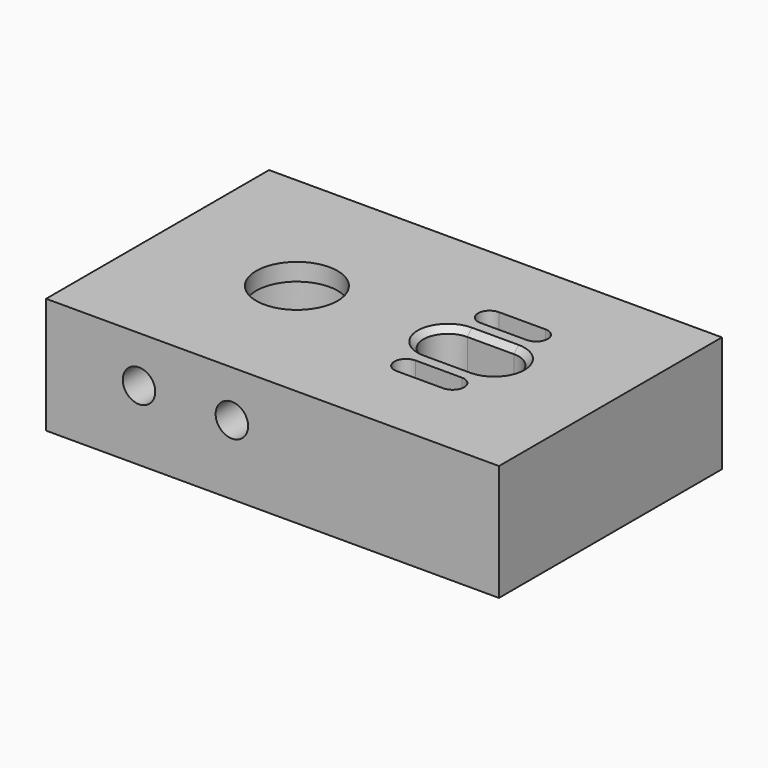
from build123d import *

# Parameters (mm, degrees)
CYLINDER028_R          = 1.4
CYLINDER028_DEPTH      = 19
CYLINDER028_ROLL_ANGLE = 90
CYLINDER031_R          = 1.4
CYLINDER031_DEPTH      = 19
CYLINDER031_ROLL_ANGLE = 90
CYLINDER032_R          = 1.4
CYLINDER032_DEPTH      = 19
CYLINDER032_ROLL_ANGLE = 90
CYLINDER027_R          = 1.4
CYLINDER027_DEPTH      = 19
CYLINDER027_ROLL_ANGLE = 90
CYLINDER021_R          = 1
CYLINDER021_DEPTH      = 30
CYLINDER022_R          = 1
CYLINDER022_DEPTH      = 30
BOX001007_W            = 4
BOX001007_H            = 4.2
BOX001007_DEPTH        = 27
CYLINDER020_R          = 2.1
CYLINDER020_DEPTH      = 30
CYLINDER023_R          = 2.1
CYLINDER023_DEPTH      = 30
CYLINDER024_R          = 1
CYLINDER024_DEPTH      = 30
BOX001008_W            = 4
BOX001008_H            = 2
BOX001008_DEPTH        = 27
CYLINDER025_R          = 1
CYLINDER025_DEPTH      = 30
BOX001009_W            = 4
BOX001009_H            = 2
BOX001009_DEPTH        = 27
CYLINDER016_R          = 3.5
CYLINDER016_DEPTH      = 30
CYLINDER017_R          = 4.7
CYLINDER017_DEPTH      = 30
CYLINDER018_R          = 10
CYLINDER018_DEPTH      = 30
CYLINDER026_R          = 10
CYLINDER026_DEPTH      = 30
CYLINDER019_R          = 10
CYLINDER019_DEPTH      = 30
BOX001006_W            = 39
BOX001006_H            = 24
BOX001006_DEPTH        = 10
CHAMFER_SIZE           = 1
CHAMFER014_SIZE        = 0.5


with BuildPart() as cylinder028:
    # Cylinder028 → Cylinder028 (new body)
    with BuildSketch(Plane.XY):
        Circle(CYLINDER028_R)
    extrude(amount=CYLINDER028_DEPTH)


with BuildPart() as cylinder028_1:
    # Cylinder028 roll: moved
    add(cylinder028.part.rotate(Axis((0, 0, 0), (1, 0, 0)), CYLINDER028_ROLL_ANGLE))


with BuildPart() as cylinder028_2:
    # Cylinder028 placement: moved
    add(cylinder028_1.part.moved(Location((4, 24, 6))))


with BuildPart() as cylinder031:
    # Cylinder031 → Cylinder031 (new body)
    with BuildSketch(Plane.XY):
        Circle(CYLINDER031_R)
    extrude(amount=CYLINDER031_DEPTH)


with BuildPart() as cylinder031_1:
    # Cylinder031 roll: moved
    add(cylinder031.part.rotate(Axis((0, 0, 0), (1, 0, 0)), CYLINDER031_ROLL_ANGLE))


with BuildPart() as cylinder031_2:
    # Cylinder031 placement: moved
    add(cylinder031_1.part.moved(Location((-4, 24, 6))))


with BuildPart() as part_mirroring:
    # Part__Mirroring: instance of Cylinder031
    add(cylinder031_2.part.mirror(Plane(origin=(0, 0, 0), x_dir=(1, 0, 0), z_dir=(0, 1, 0))))


with BuildPart() as cylinder032:
    # Cylinder032 → Cylinder032 (new body)
    with BuildSketch(Plane.XY):
        Circle(CYLINDER032_R)
    extrude(amount=CYLINDER032_DEPTH)


with BuildPart() as cylinder032_1:
    # Cylinder032 roll: moved
    add(cylinder032.part.rotate(Axis((0, 0, 0), (1, 0, 0)), CYLINDER032_ROLL_ANGLE))


with BuildPart() as cylinder032_2:
    # Cylinder032 placement: moved
    add(cylinder032_1.part.moved(Location((4, 24, 6))))


with BuildPart() as part_mirroring001:
    # Part__Mirroring001: instance of Cylinder032
    add(cylinder032_2.part.mirror(Plane(origin=(0, 0, 0), x_dir=(1, 0, 0), z_dir=(0, 1, 0))))


with BuildPart() as m3_tap_a:
    # Cylinder027 → Cylinder027 (new body)
    with BuildSketch(Plane.XY):
        Circle(CYLINDER027_R)
    extrude(amount=CYLINDER027_DEPTH)


with BuildPart() as m3_tap_a_1:
    # Cylinder027 roll: moved
    add(m3_tap_a.part.rotate(Axis((0, 0, 0), (1, 0, 0)), CYLINDER027_ROLL_ANGLE))


with BuildPart() as m3_tap_a_2:
    # Cylinder027 placement: moved
    add(m3_tap_a_1.part.moved(Location((-4, 24, 6))))

    # Fusion056: union Cylinder028, Part__Mirroring, Part__Mirroring001
    add(cylinder028_2.part)
    add(part_mirroring.part)
    add(part_mirroring001.part)


with BuildPart() as cylinder021:
    # Cylinder021 → Cylinder021 (new body)
    with BuildSketch(Plane(origin=(17, -4.5, -12.5), x_dir=(1, 0, 0), z_dir=(0, 0, 1))):
        Circle(CYLINDER021_R)
    extrude(amount=CYLINDER021_DEPTH)


with BuildPart() as cylinder022:
    # Cylinder022 → Cylinder022 (new body)
    with BuildSketch(Plane(origin=(17, 4.5, -12.5), x_dir=(1, 0, 0), z_dir=(0, 0, 1))):
        Circle(CYLINDER022_R)
    extrude(amount=CYLINDER022_DEPTH)


with BuildPart() as cube005:
    # Box001007 → Box001007 (new body)
    with BuildSketch(Plane(origin=(13, -2.1, -11), x_dir=(1, 0, 0), z_dir=(0, 0, 1))):
        with Locations((2, 2.1)):
            Rectangle(BOX001007_W, BOX001007_H)
    extrude(amount=BOX001007_DEPTH)


with BuildPart() as cylinder020:
    # Cylinder020 → Cylinder020 (new body)
    with BuildSketch(Plane(origin=(17, 0, -12.5), x_dir=(1, 0, 0), z_dir=(0, 0, 1))):
        Circle(CYLINDER020_R)
    extrude(amount=CYLINDER020_DEPTH)


with BuildPart() as cylinder023:
    # Cylinder023 → Cylinder023 (new body)
    with BuildSketch(Plane(origin=(13, 0, -12.5), x_dir=(1, 0, 0), z_dir=(0, 0, 1))):
        Circle(CYLINDER023_R)
    extrude(amount=CYLINDER023_DEPTH)


with BuildPart() as cylinder024:
    # Cylinder024 → Cylinder024 (new body)
    with BuildSketch(Plane(origin=(13, -4.5, -12.5), x_dir=(1, 0, 0), z_dir=(0, 0, 1))):
        Circle(CYLINDER024_R)
    extrude(amount=CYLINDER024_DEPTH)


with BuildPart() as cube006:
    # Box001008 → Box001008 (new body)
    with BuildSketch(Plane(origin=(13, -5.5, -11), x_dir=(1, 0, 0), z_dir=(0, 0, 1))):
        with Locations((2, 1)):
            Rectangle(BOX001008_W, BOX001008_H)
    extrude(amount=BOX001008_DEPTH)


with BuildPart() as cylinder025:
    # Cylinder025 → Cylinder025 (new body)
    with BuildSketch(Plane(origin=(13, 4.5, -12.5), x_dir=(1, 0, 0), z_dir=(0, 0, 1))):
        Circle(CYLINDER025_R)
    extrude(amount=CYLINDER025_DEPTH)


with BuildPart() as motor_slots:
    # Box001009 → Box001009 (new body)
    with BuildSketch(Plane(origin=(13, 3.5, -11), x_dir=(1, 0, 0), z_dir=(0, 0, 1))):
        with Locations((2, 1)):
            Rectangle(BOX001009_W, BOX001009_H)
    extrude(amount=BOX001009_DEPTH)

    # Fusion052: union Cylinder021, Cylinder022, Cube005, Cylinder020, Cylinder023, Cylinder024, Cube006, Cylinder025
    add(cylinder021.part)
    add(cylinder022.part)
    add(cube005.part)
    add(cylinder020.part)
    add(cylinder023.part)
    add(cylinder024.part)
    add(cube006.part)
    add(cylinder025.part)


with BuildPart() as cylinder016:
    # Cylinder016 → Cylinder016 (new body)
    with BuildSketch(Plane.XY.offset(-12)):
        Circle(CYLINDER016_R)
    extrude(amount=CYLINDER016_DEPTH)


with BuildPart() as cylinder017:
    # Cylinder017 → Cylinder017 (new body)
    with BuildSketch(Plane.XY.offset(-21.5)):
        Circle(CYLINDER017_R)
    extrude(amount=CYLINDER017_DEPTH)


with BuildPart() as cylinder018:
    # Cylinder018 → Cylinder018 (new body)
    with BuildSketch(Plane.XY.offset(-25.5)):
        Circle(CYLINDER018_R)
    extrude(amount=CYLINDER018_DEPTH)


with BuildPart() as cylinder026:
    # Cylinder026 → Cylinder026 (new body)
    with BuildSketch(Plane(origin=(15, 0, -25.5), x_dir=(1, 0, 0), z_dir=(0, 0, 1))):
        Circle(CYLINDER026_R)
    extrude(amount=CYLINDER026_DEPTH)


with BuildPart() as fusion054:
    # Cylinder019 → Cylinder019 (new body)
    with BuildSketch(Plane(origin=(16, 0, -25.5), x_dir=(1, 0, 0), z_dir=(0, 0, 1))):
        Circle(CYLINDER019_R)
    extrude(amount=CYLINDER019_DEPTH)

    # Fusion053: union Cylinder016, Cylinder017, Cylinder018, Cylinder026
    add(cylinder016.part)
    add(cylinder017.part)
    add(cylinder018.part)
    add(cylinder026.part)

    # Fusion054: union motor-slots
    add(motor_slots.part)


with BuildPart() as gearbox:
    # Box001006 → Box001006 (new body)
    with BuildSketch(Plane(origin=(-12, -12, 0), x_dir=(1, 0, 0), z_dir=(0, 0, 1))):
        with Locations((19.5, 12)):
            Rectangle(BOX001006_W, BOX001006_H)
    extrude(amount=BOX001006_DEPTH)

    # Cut005: cut Fusion054
    add(fusion054.part, mode=Mode.SUBTRACT)

    # Chamfer
    chamfer_edges = [gearbox.edges().sort_by_distance(p)[0] for p in [
        (12, 4.5, 4.5),
        (15, 3.5, 4.5),
        (17.707107, 3.792893, 4.5),
        (17.707107, 5.207107, 4.5),
        (15, 5.5, 4.5),
        (17.707107, -5.207107, 4.5),
        (17.707107, -3.792893, 4.5),
        (15, -3.5, 4.5),
        (12, -4.5, 4.5),
        (15, -5.5, 4.5),
    ]]
    chamfer(chamfer_edges, length=CHAMFER_SIZE)

    # Cut007: cut M3-tap-a
    add(m3_tap_a_2.part, mode=Mode.SUBTRACT)

    # Chamfer014
    chamfer014_edges = [gearbox.edges().sort_by_distance(p)[0] for p in [
        (18.484924, 1.484924, 10),
        (15, 2.1, 10),
        (10.9, 0, 10),
        (15, -2.1, 10),
        (18.484924, -1.484924, 10),
    ]]
    chamfer(chamfer014_edges, length=CHAMFER014_SIZE)


solid = gearbox.part
